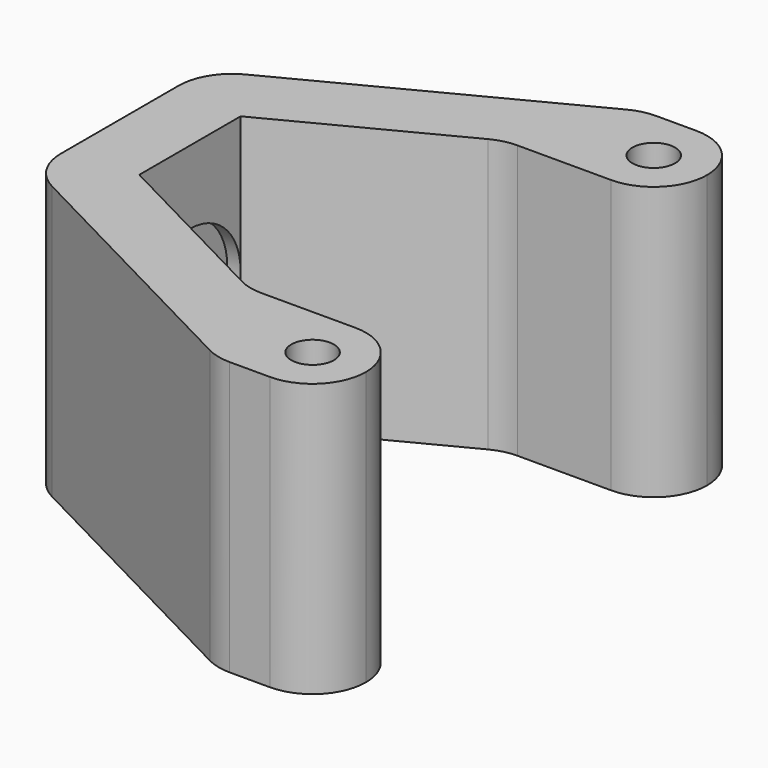
from build123d import *

# Parameters (mm, degrees)
SKETCH_R     = 1.6
PAD_DEPTH    = 20.5
SKETCH001_R  = 4.75
POCKET_DEPTH = 1
FILLET_R     = 4
FILLET001_R  = 3.9999


with BuildPart() as part:
    # Sketch → Pad (new body)
    with BuildSketch(Plane.XY):
        Polygon((18, 20), (26, 20), (26, 12), (18, 12), (14, 12), (0, 4.75), (0, -4.75), (14, -12), (18, -12), (26, -12), (26, -20), (18, -20), (-5.264538, -7.952293), (-5.264538, 7.952293), align=None)
        with Locations((22, 16)):
            Circle(SKETCH_R, mode=Mode.SUBTRACT)
        with Locations((22, -16)):
            Circle(SKETCH_R, mode=Mode.SUBTRACT)
    extrude(amount=PAD_DEPTH)

    # Sketch001 → Pocket (cut)
    with BuildSketch(Plane.YZ):
        with Locations((0, 10.25)):
            Circle(SKETCH001_R)
    extrude(amount=-POCKET_DEPTH, mode=Mode.SUBTRACT)

    # Fillet
    fillet_edges = [part.edges().sort_by_distance(p)[0] for p in [
        (26, -20, 10.25),
        (18, -20, 10.25),
        (-5.264538, -7.952293, 10.25),
        (-5.264538, 7.952293, 10.25),
        (18, 20, 10.25),
        (26, 20, 10.25),
    ]]
    fillet(fillet_edges, radius=FILLET_R)

    # Fillet001
    fillet001_edges = [part.edges().sort_by_distance(p)[0] for p in [
        (26, -12, 10.25),
        (14, -12, 10.25),
        (14, 12, 10.25),
        (26, 12, 10.25),
    ]]
    fillet(fillet001_edges, radius=FILLET001_R)


solid = part.part
